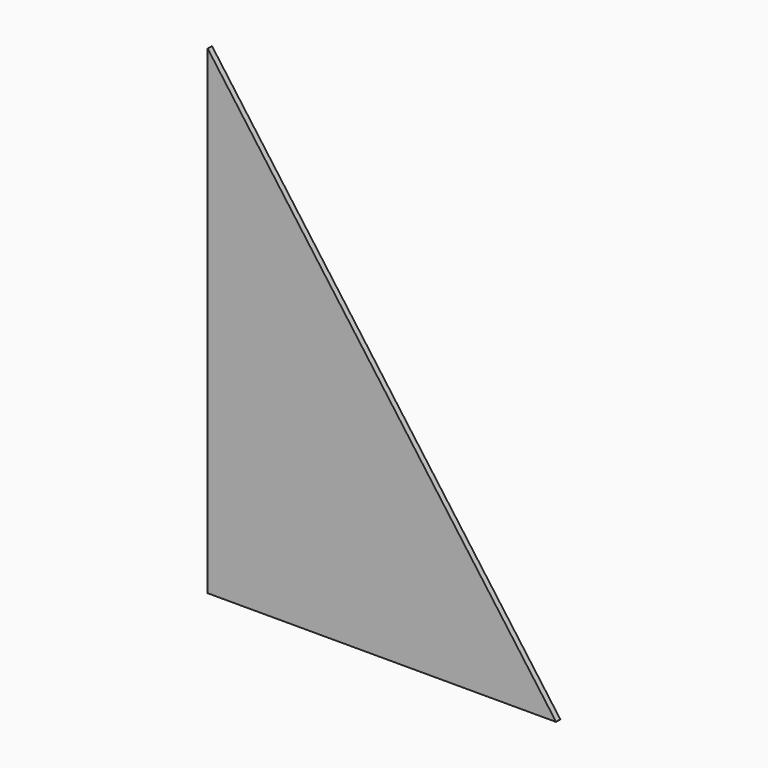
from build123d import *

# Parameters (mm, degrees)
BOX010_W               = 65
BOX010_H               = 1
BOX010_DEPTH           = 121
BOX010_PLACEMENT_ANGLE = 324
BOX_W                  = 65
BOX_H                  = 1
BOX_DEPTH              = 90


with BuildPart() as cubo010:
    # Box010 → Box010 (new body)
    with BuildSketch(Plane.XY):
        with Locations((32.5, 0.5)):
            Rectangle(BOX010_W, BOX010_H)
    extrude(amount=BOX010_DEPTH)


with BuildPart() as cubo010_1:
    # Box010 placement: moved
    add(cubo010.part.moved(Location((114.65, -0.5, -95))).rotate(Axis((114.65, -0.5, -95), (0, 1, 0)), BOX010_PLACEMENT_ANGLE))


with BuildPart() as obj1:
    # Box → Box (new body)
    with BuildSketch(Plane(origin=(46, -0.5, -90), x_dir=(1, 0, 0), z_dir=(0, 0, 1))):
        with Locations((32.5, 0.5)):
            Rectangle(BOX_W, BOX_H)
    extrude(amount=BOX_DEPTH)

    # Cut002: cut Cubo010
    add(cubo010_1.part, mode=Mode.SUBTRACT)


solid = obj1.part
